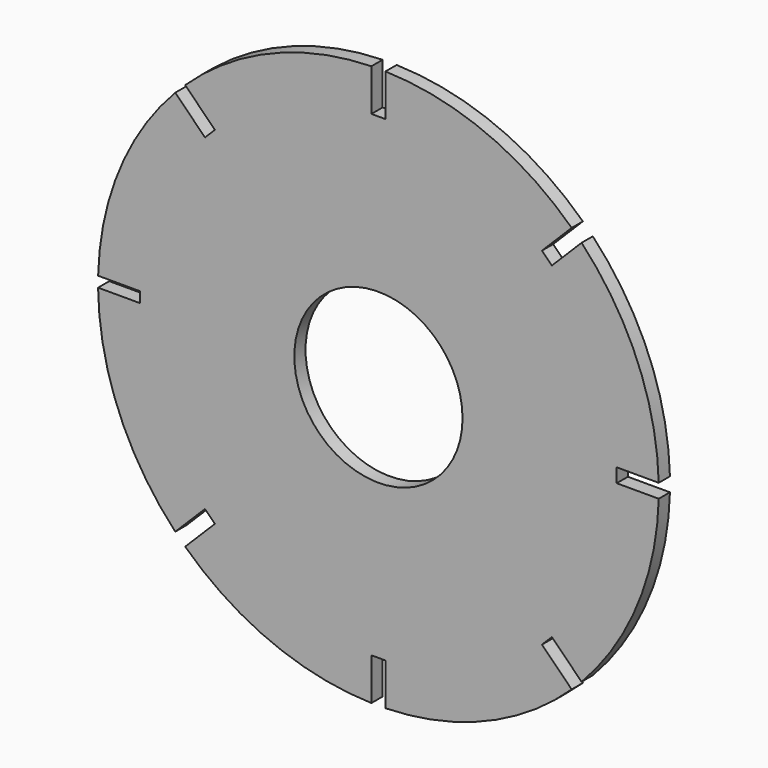
from build123d import *

# Parameters (mm, degrees)
F0_R     = 38.1
F1_DEPTH = 6.35
F3_DEPTH = 25.4


with BuildPart() as f1:
    # F0 (on Front) → F1 (new body)
    with BuildSketch(Plane.XZ):
        with BuildLine():
            Line((107.910306, 3.175), (126.960306, 3.175))
            ThreePointArc((126.960306, 3.175), (89.802561, 89.802561), (3.175, 126.960306))
            Line((3.175, 126.960306), (3.175, 107.95))
            Line((3.175, 107.95), (-3.175, 107.95))
            Line((-3.175, 107.95), (-3.175, 126.960306))
            ThreePointArc((-3.175, 126.960306), (-89.802561, 89.802561), (-126.960306, 3.175))
            Line((-126.960306, 3.175), (-107.910306, 3.175))
            Line((-107.910306, 3.175), (-107.910306, -1.5875))
            Line((-107.910306, -1.5875), (-126.990078, -1.5875))
            ThreePointArc((-126.990078, -1.5875), (-90.362171, -89.239442), (-3.175, -126.960306))
            Line((-3.175, -126.960306), (-3.175, -107.910306))
            Line((-3.175, -107.910306), (3.175, -107.910306))
            Line((3.175, -107.910306), (3.175, -126.960306))
            ThreePointArc((3.175, -126.960306), (89.802561, -89.802561), (126.960306, -3.175))
            Line((126.960306, -3.175), (107.910306, -3.175))
            Line((107.910306, -3.175), (107.910306, 3.175))
        make_face()
        Circle(F0_R, mode=Mode.SUBTRACT)
    extrude(amount=F1_DEPTH)

    # F2 (on face) → F3 (cut)
    with BuildSketch(Plane.XZ.offset(6.35)):
        Polygon((74.059045, 78.549173), (76.304109, 76.304109), (78.549173, 74.059045), (92.019558, 87.529429), (97.280774, 92.737254), (92.76395, 97.254078), (87.529429, 92.019558), align=None)
        Polygon((78.549173, -74.059045), (76.304109, -76.304109), (74.059045, -78.549173), (87.529429, -92.019558), (97.125031, -102.679037), (102.767334, -97.599868), (92.019558, -87.529429), align=None)
        Polygon((-74.059045, -78.549173), (-76.304109, -76.304109), (-78.549173, -74.059045), (-92.019558, -87.529429), (-97.248051, -92.726782), (-92.600375, -97.240731), (-87.529429, -92.019558), align=None)
        Polygon((-78.549173, 74.059045), (-76.304109, 76.304109), (-74.059045, 78.549173), (-87.529429, 92.019558), (-93.063728, 97.553856), (-97.69151, 92.926074), (-92.019558, 87.529429), align=None)
    extrude(amount=-F3_DEPTH, mode=Mode.SUBTRACT)


solid = f1.part
